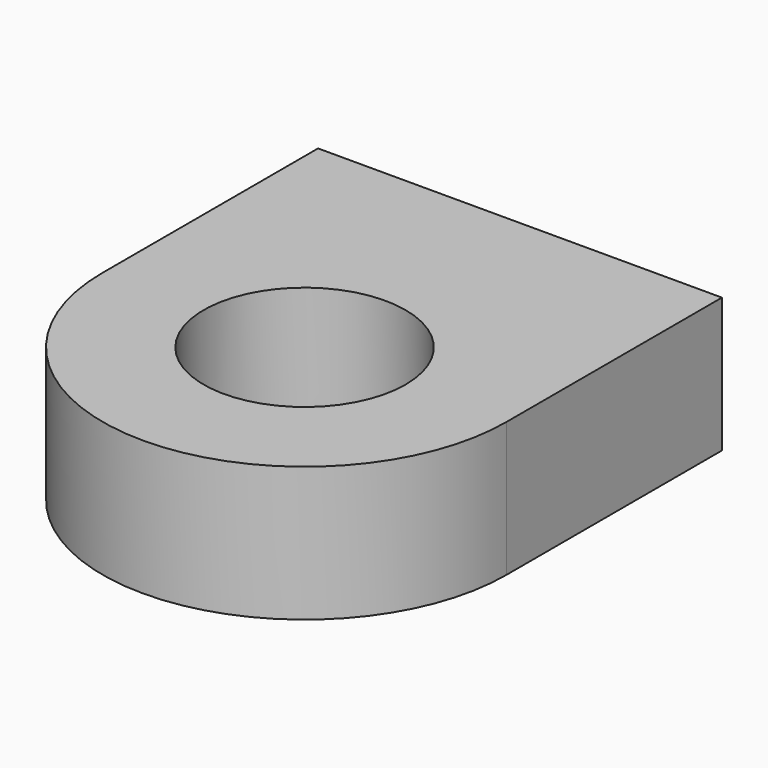
from build123d import *

# Parameters (mm, degrees)
F0_W     = 38.1
F0_H     = 25.4
F1_DEPTH = 12.7
F2_R     = 9.525
F3_DEPTH = 12.701


with BuildPart() as f1:
    # F0 (on Top) → F1 (new body)
    with BuildSketch(Plane.XY):
        Rectangle(F0_W, F0_H)
        with BuildLine():
            Line((19.05, -12.7), (-19.05, -12.7))
            ThreePointArc((-19.05, -12.7), (0, -31.75), (19.05, -12.7))
        make_face()
    extrude(amount=F1_DEPTH)

    # F2 (on face) → F3 (cut, through all)
    with BuildSketch(Plane.XY.offset(12.7)):
        with Locations((0, -12.7)):
            Circle(F2_R)
    extrude(amount=-F3_DEPTH, mode=Mode.SUBTRACT)


solid = f1.part
